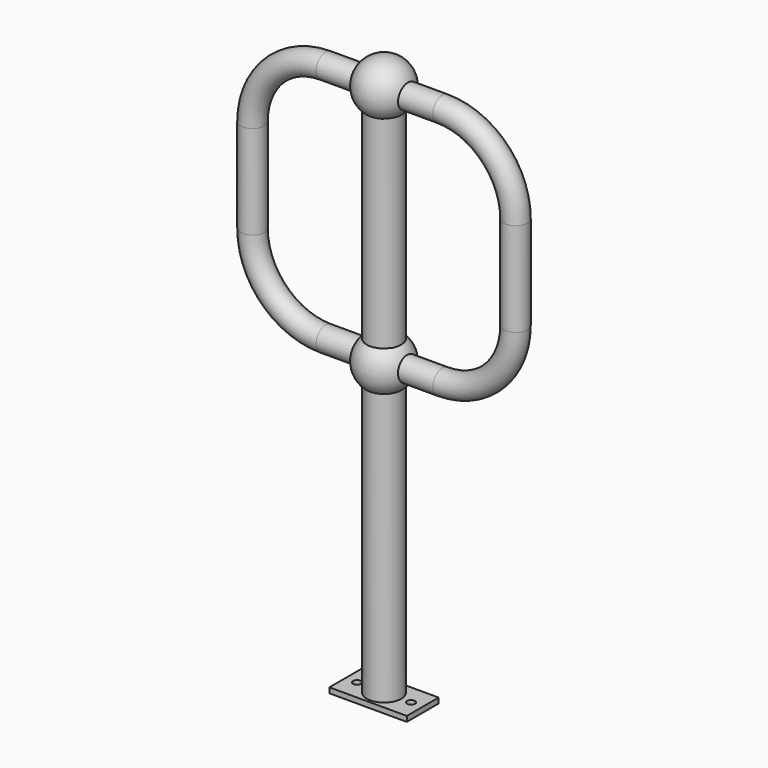
from build123d import *

# Parameters (mm, degrees)
F1_R      = 22.5
F1_R_2    = 17.5
F4_START  = 10
F3_R      = 32.5
F3_R_2    = 27.5
F4_DEPTH  = 1007
F9_W      = 146
F9_H      = 75
F9_R      = 7.5
F10_DEPTH = 10


with BuildPart() as f2:
    # F2: sweep along a path in F0
    with BuildLine(Plane.XZ) as f2_path:
        Line((0, 560), (110, 560))
        ThreePointArc((110, 560), (208.9949493661, 601.0050506339), (250, 700))
        Line((250, 700), (250, 877))
        ThreePointArc((250, 877), (208.9949493661, 975.9949493661), (110, 1017))
        Line((110, 1017), (0, 1017))
        Line((0, 1017), (-110, 1017))
        ThreePointArc((-110, 1017), (-208.9949493661, 975.9949493661), (-250, 877))
        Line((-250, 877), (-250, 700))
        ThreePointArc((-250, 700), (-208.9949493661, 601.0050506339), (-110, 560))
        Line((-110, 560), (0, 560))
    # F1 (on Right) → F2 (sweep)
    with BuildSketch(Plane.YZ):
        with Locations((0, 562.0379447937)):
            Circle(F1_R)
        with Locations((0, 562.0379447937)):
            Circle(F1_R_2, mode=Mode.SUBTRACT)
    sweep(path=f2_path.line)


with BuildPart() as f4:
    # F3 (on Top) → F4 (new body)
    with BuildSketch(Plane.XY.offset(F4_START)):
        Circle(F3_R)
        Circle(F3_R_2, mode=Mode.SUBTRACT)
    extrude(amount=F4_DEPTH)


with BuildPart() as f6:
    # F5 (on face) → F6 (revolve)
    with BuildSketch(Plane.XY.offset(1017)):
        with BuildLine():
            Line((50, 0), (-50, 0))
            ThreePointArc((-50, 0), (0, -50), (50, 0))
        make_face()
    revolve(axis=Axis((0, 0, 1017), (1, 0, 0)))


with BuildPart() as f8_1:
    # F8: instance of F6
    add(f6.part.mirror(Plane.XY.offset(788.5)))


with BuildPart() as f10:
    # F9 (on Top) → F10 (new body)
    with BuildSketch(Plane.XY):
        Rectangle(F9_W, F9_H)
        with Locations((-51, 0)):
            Circle(F9_R, mode=Mode.SUBTRACT)
        with Locations((51, 0)):
            Circle(F9_R, mode=Mode.SUBTRACT)
    extrude(amount=F10_DEPTH)


solid = Compound([f2.part, f4.part, f6.part, f8_1.part, f10.part])
